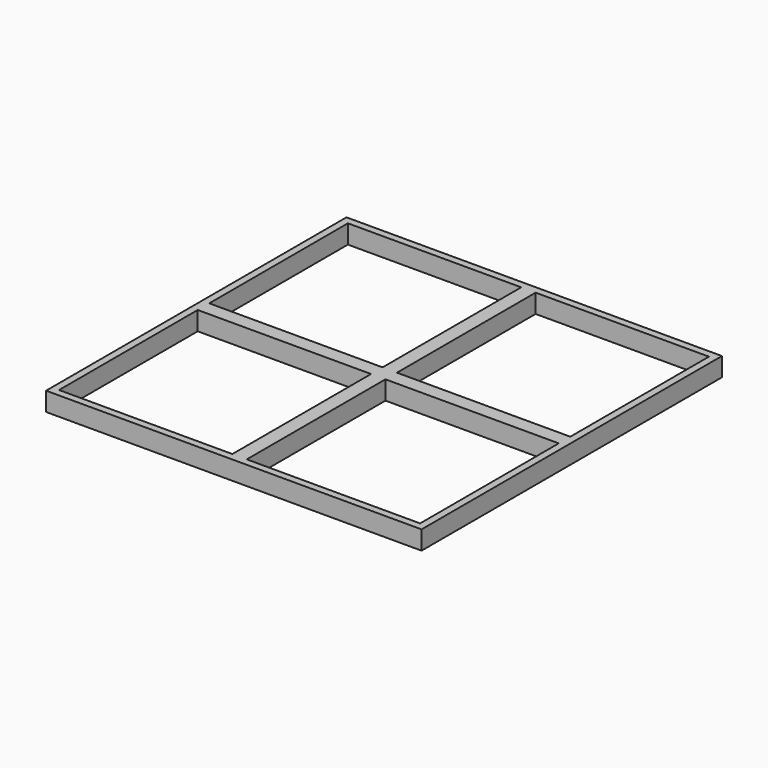
from build123d import *

# Parameters (mm, degrees)
F0_W     = 100
F0_H     = 100
F1_DEPTH = 5
F2_W     = 46.16
F2_H     = 46.16
F3_DEPTH = 5


with BuildPart() as f1:
    # F0 (on Top) → F1 (new body)
    with BuildSketch(Plane.XY):
        Rectangle(F0_W, F0_H)
    extrude(amount=F1_DEPTH)

    # F2 (on face) → F3 (cut, through all)
    with BuildSketch(Plane.XY.offset(5)):
        with Locations((-25, 25)):
            Rectangle(F2_W, F2_H)
        with Locations((25, 25)):
            Rectangle(F2_W, F2_H)
        with Locations((25, -25)):
            Rectangle(F2_W, F2_H)
        with Locations((-25, -25)):
            Rectangle(F2_W, F2_H)
    extrude(amount=-F3_DEPTH, mode=Mode.SUBTRACT)


solid = f1.part
